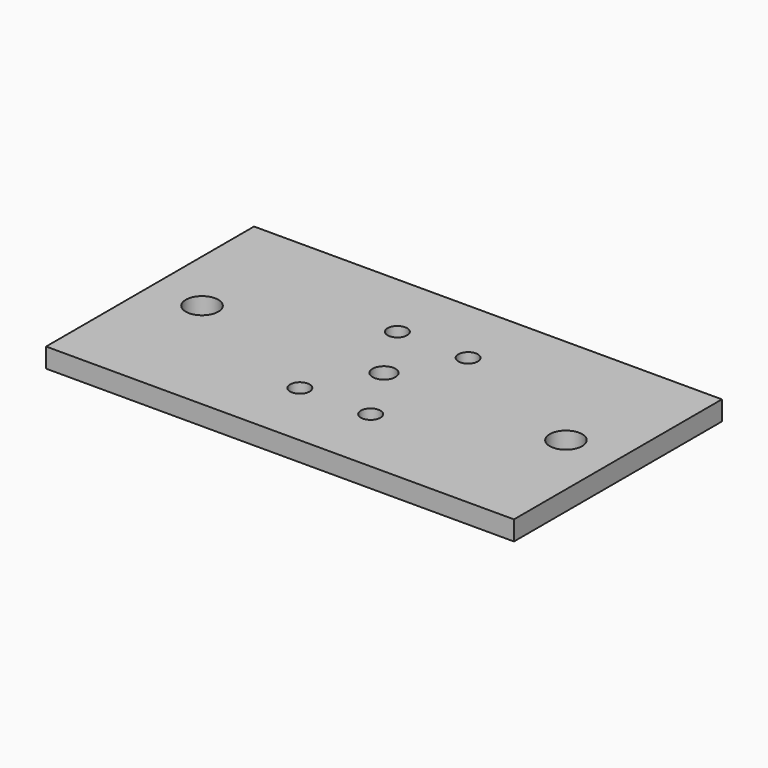
from build123d import *

# Parameters (mm, degrees)
F0_W     = 457.2
F0_H     = 254
F0_R     = 9.525
F0_R_2   = 15.875
F0_R_3   = 11.1125
F1_DEPTH = 19.05


with BuildPart() as f1:
    # F0 (on Top) → F1 (new body)
    with BuildSketch(Plane.XY):
        Rectangle(F0_W, F0_H)
        with Locations((-34.5948, -59.5376)):
            Circle(F0_R, mode=Mode.SUBTRACT)
        with Locations((34.5948, -59.5376)):
            Circle(F0_R, mode=Mode.SUBTRACT)
        with Locations((-177.8, 0)):
            Circle(F0_R_2, mode=Mode.SUBTRACT)
        with Locations((-34.5948, 59.5376)):
            Circle(F0_R, mode=Mode.SUBTRACT)
        Circle(F0_R_3, mode=Mode.SUBTRACT)
        with Locations((34.5948, 59.5376)):
            Circle(F0_R, mode=Mode.SUBTRACT)
        with Locations((177.8, 0)):
            Circle(F0_R_2, mode=Mode.SUBTRACT)
    extrude(amount=F1_DEPTH)


solid = f1.part
